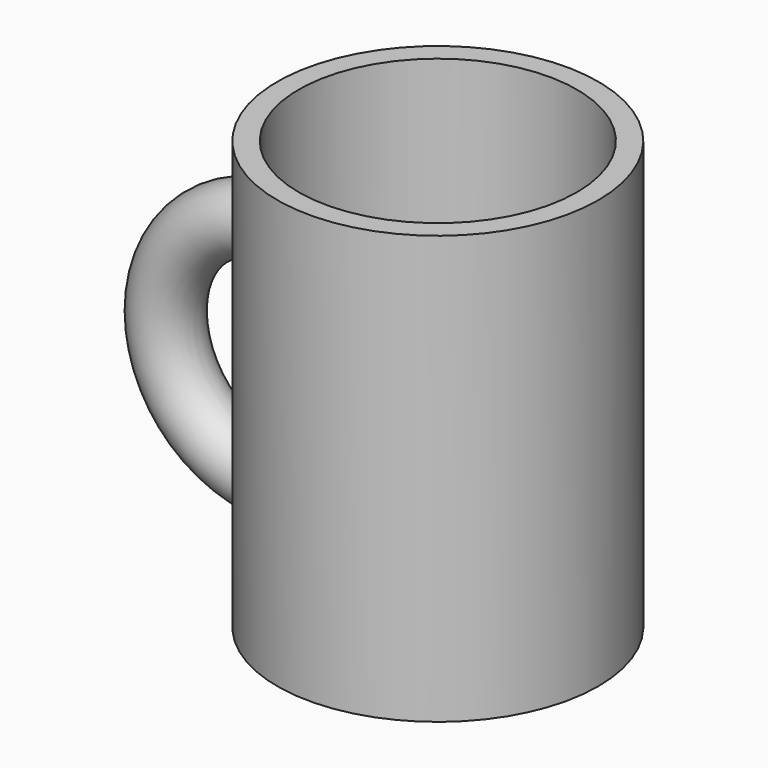
from build123d import *

# Parameters (mm, degrees)
F0_W     = 19.05
F0_H     = 50.8
F2_T     = -2.54
F3_R     = 3.81
F4_ANGLE = 180


with BuildPart() as f1:
    # F0 (on Front) → F1 (revolve)
    with BuildSketch(Plane.XZ):
        with Locations((28.321, 29.9166932978)):
            Rectangle(F0_W, F0_H)
    revolve(axis=Axis((18.796, 0, 29.9166932978), (0, 0, -1)))

    # F2
    f2_openings = [f1.faces().sort_by_distance(p)[0] for p in [
        (18.796, 0, 55.316693),
    ]]
    offset(amount=F2_T, openings=f2_openings)

    # F3 (on Right) → F4 (revolve)
    with BuildSketch(Plane.YZ):
        with Locations((0, 13.575695168)):
            Circle(F3_R)
    revolve(axis=Axis((0, -0.5171763977, 27.0786721792), (0, 1, 0)), revolution_arc=F4_ANGLE)


solid = f1.part
